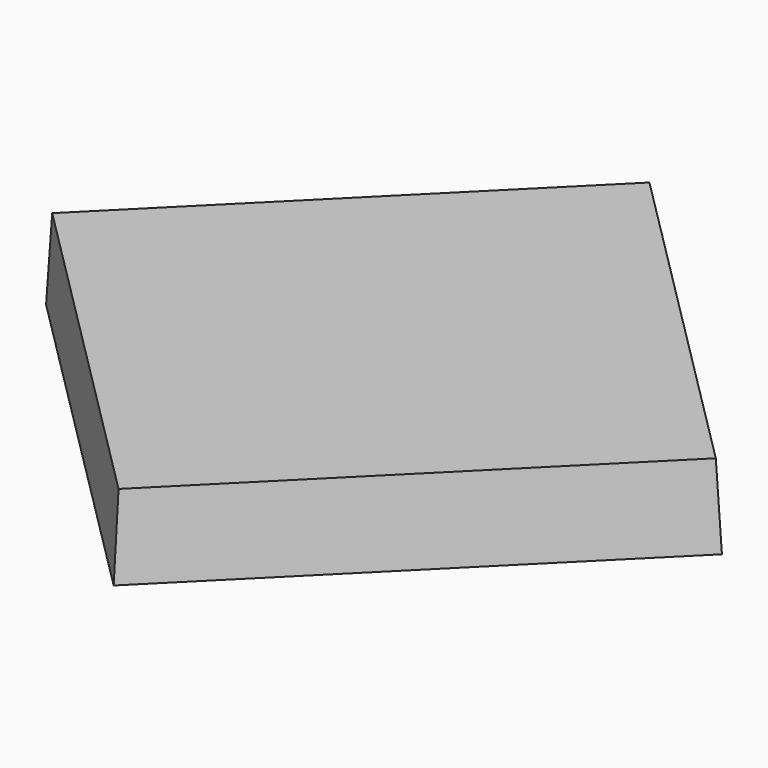
from build123d import *

# Parameters (mm, degrees)
F0_W     = 73.533
F0_H     = 73.533
F1_DEPTH = 12.7
F1_TAPER = 3
F3_ANGLE = 45


with BuildPart() as f1:
    # F0 (on Top) → F1 (new body)
    with BuildSketch(Plane.XY):
        Rectangle(F0_W, F0_H)
    extrude(amount=F1_DEPTH, taper=F1_TAPER)


with BuildPart() as f1_1:
    # F3: moved
    add(f1.part.rotate(Axis((0, 0, 36.8069037795), (0, 0, 1)), F3_ANGLE))


solid = f1_1.part
